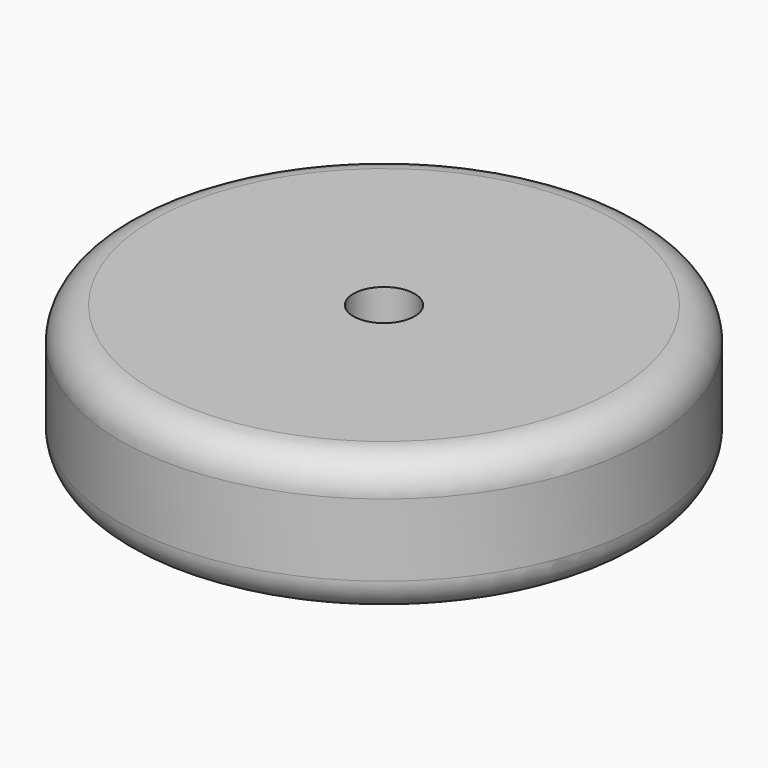
from build123d import *

# Parameters (mm, degrees)
CYLINDER013_R     = 1.1
CYLINDER013_DEPTH = 5
CYLINDER012_R     = 9.5
CYLINDER012_DEPTH = 5
FILLET002003_R    = 1.2


with BuildPart() as footbase001:
    # Cylinder013 → Cylinder013 (new body)
    with BuildSketch(Plane(origin=(9, 9.5, -4), x_dir=(1, 0, 0), z_dir=(0, 0, 1))):
        Circle(CYLINDER013_R)
    extrude(amount=CYLINDER013_DEPTH)


with BuildPart() as foot:
    # Cylinder012 → Cylinder012 (new body)
    with BuildSketch(Plane(origin=(9, 9.5, -5), x_dir=(1, 0, 0), z_dir=(0, 0, 1))):
        Circle(CYLINDER012_R)
    extrude(amount=CYLINDER012_DEPTH)

    # Cut001002: cut FootBase001
    add(footbase001.part, mode=Mode.SUBTRACT)


with BuildPart() as foot_1:
    # Cut001002 placement: moved
    add(foot.part.moved(Location((0, -22, 0))))

    # Fillet002003
    fillet002003_edges = [foot_1.edges().sort_by_distance(p)[0] for p in [
        (-0.5, -12.5, 0),
        (-0.5, -12.5, -5),
    ]]
    fillet(fillet002003_edges, radius=FILLET002003_R)


solid = foot_1.part
